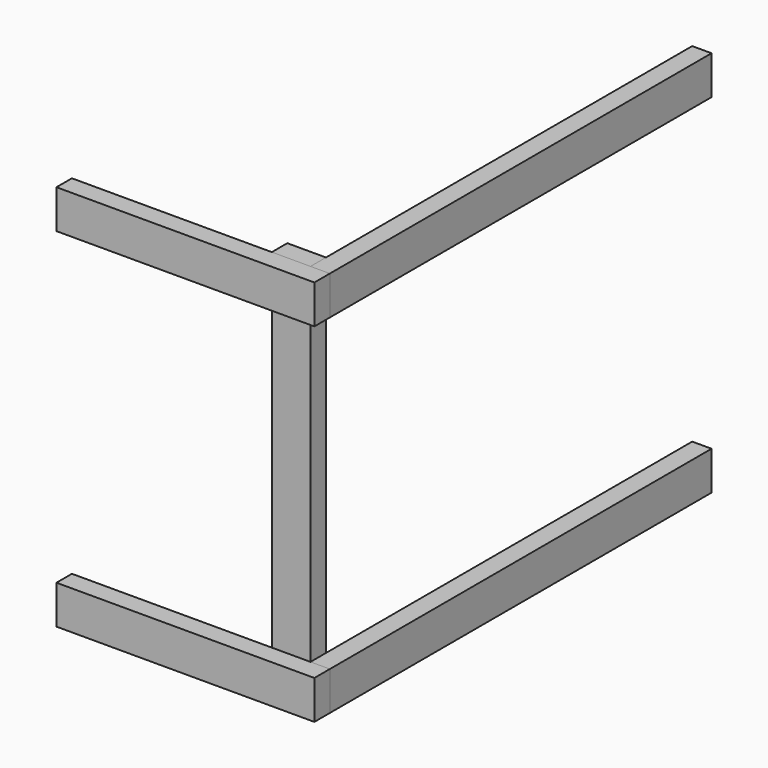
from build123d import *

# Parameters (mm, degrees)
F0_W     = 45
F0_H     = 1110
F1_DEPTH = 90
F2_W     = 600
F2_H     = 45
F3_DEPTH = 90
F4_W     = 90
F4_H     = 45
F5_DEPTH = 900
F6_W     = 45
F6_H     = 1110
F7_DEPTH = 90
F8_W     = 600
F8_H     = 45
F9_DEPTH = 90


with BuildPart() as f1:
    # F0 (on Top) → F1 (new body)
    with BuildSketch(Plane.XY):
        with Locations((22.5, 555)):
            Rectangle(F0_W, F0_H)
    extrude(amount=F1_DEPTH)


with BuildPart() as f3:
    # F2 (on Top) → F3 (new body)
    with BuildSketch(Plane.XY):
        with Locations((-255, -22.5)):
            Rectangle(F2_W, F2_H)
    extrude(amount=F3_DEPTH)


with BuildPart() as f5:
    # F4 (on Top) → F5 (new body)
    with BuildSketch(Plane.XY):
        with Locations((-45, 22.5)):
            Rectangle(F4_W, F4_H)
    extrude(amount=F5_DEPTH)


with BuildPart() as f7:
    # F6 (on face) → F7 (new body)
    with BuildSketch(Plane.XY.offset(900)):
        with Locations((22.5, 555)):
            Rectangle(F6_W, F6_H)
    extrude(amount=-F7_DEPTH)


with BuildPart() as f9:
    # F8 (on face) → F9 (new body)
    with BuildSketch(Plane.XY.offset(900)):
        with Locations((-255, -22.5)):
            Rectangle(F8_W, F8_H)
    extrude(amount=-F9_DEPTH)


solid = Compound([f1.part, f3.part, f5.part, f7.part, f9.part])
